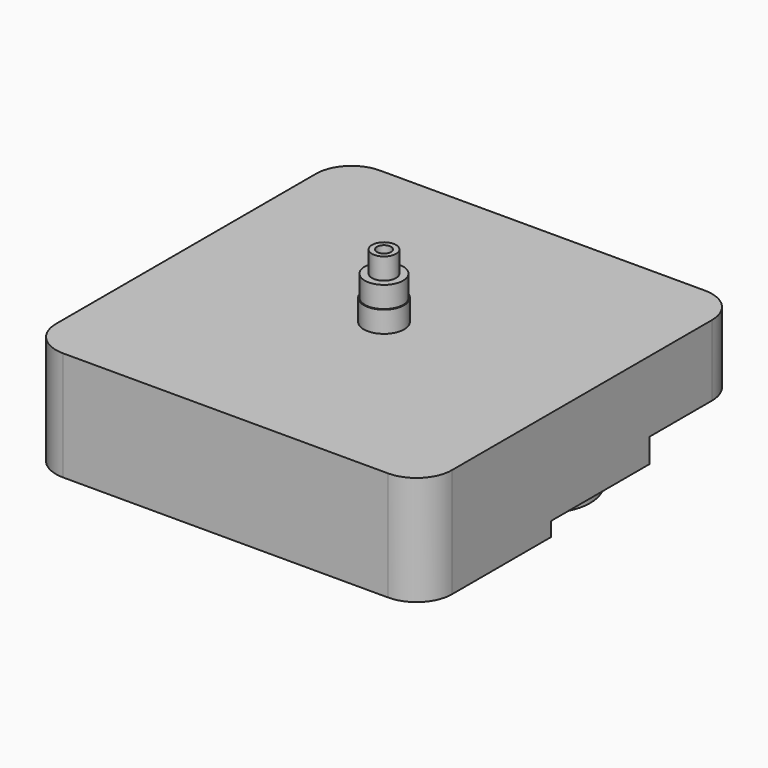
from build123d import *

# Parameters (mm, degrees)
F1_DEPTH  = 15.4
F3_DEPTH  = 5.4
F5_DEPTH  = 2
F6_R      = 6.7
F7_DEPTH  = 2
F9_DEPTH  = 8.7
F10_R     = 1.25
F11_DEPTH = 1
F12_R     = 2.85
F13_DEPTH = 3
F14_R     = 2.7
F15_DEPTH = 3
F16_R     = 1
F17_DEPTH = 5
F18_R     = 1.7
F18_R_2   = 1
F19_DEPTH = 3


with BuildPart() as f1:
    # F0 (on Top) → F1 (new body)
    with BuildSketch(Plane.XY):
        with BuildLine():
            Line((-22.9, -27.9), (22.9, -27.9))
            ThreePointArc((22.9, -27.9), (26.4355339059, -26.4355339059), (27.9, -22.9))
            Line((27.9, -22.9), (27.9, 22.9))
            ThreePointArc((27.9, 22.9), (26.4355339059, 26.4355339059), (22.9, 27.9))
            Line((22.9, 27.9), (-22.9, 27.9))
            ThreePointArc((-22.9, 27.9), (-26.4355339059, 26.4355339059), (-27.9, 22.9))
            Line((-27.9, 22.9), (-27.9, -22.9))
            ThreePointArc((-27.9, -22.9), (-26.4355339059, -26.4355339059), (-22.9, -27.9))
        make_face()
    extrude(amount=F1_DEPTH)

    # F2 (on face) → F3 (cut)
    with BuildSketch(Plane(origin=(0, 0, 0), x_dir=(1, 0, 0), z_dir=(0, 0, -1))):
        with BuildLine():
            Line((27.9, -11.9), (-27.9, -11.9))
            Line((-27.9, -11.9), (-27.9, -22.9))
            ThreePointArc((-27.9, -22.9), (-26.4355339059, -26.4355339059), (-22.9, -27.9))
            Line((-22.9, -27.9), (22.9, -27.9))
            ThreePointArc((22.9, -27.9), (26.4355339059, -26.4355339059), (27.9, -22.9))
            Line((27.9, -22.9), (27.9, -11.9))
        make_face()
    extrude(amount=-F3_DEPTH, mode=Mode.SUBTRACT)

    # F4 (on face) → F5 (cut)
    with BuildSketch(Plane(origin=(0, 0, 0), x_dir=(1, 0, 0), z_dir=(0, 0, -1))):
        with BuildLine():
            Line((27.9, -11.9), (27.9, 5.5))
            Line((27.9, 5.5), (19.5, 5.5))
            ThreePointArc((19.5, 5.5), (13.0653282912, 2.8346717088), (10.4, -3.6))
            Line((10.4, -3.6), (10.4, -11.9))
            Line((10.4, -11.9), (27.9, -11.9))
        make_face()
    extrude(amount=-F5_DEPTH, mode=Mode.SUBTRACT)

    # F6 (on face) → F7 (join)
    with BuildSketch(Plane(origin=(0, 0, 2), x_dir=(1, 0, 0), z_dir=(0, 0, -1))):
        with Locations((19.5, -3.6)):
            Circle(F6_R)
    extrude(amount=F7_DEPTH)

    # F8 (on face) → F9 (cut)
    with BuildSketch(Plane(origin=(0, 0, 5.4), x_dir=(1, 0, 0), z_dir=(0, 0, -1))):
        with BuildLine():
            Line((8, -26.6), (21.6, -26.6))
            ThreePointArc((21.6, -26.6), (25.1355339059, -25.1355339059), (26.6, -21.6))
            Line((26.6, -21.6), (26.6, -12.4))
            Line((26.6, -12.4), (-26.6, -12.4))
            Line((-26.6, -12.4), (-26.6, -21.6))
            ThreePointArc((-26.6, -21.6), (-25.1355339059, -25.1355339059), (-21.6, -26.6))
            Line((-21.6, -26.6), (-8, -26.6))
            Line((-8, -26.6), (-8, -26.55))
            ThreePointArc((-8, -26.55), (-7.8096194078, -26.0903805922), (-7.35, -25.9))
            Line((-7.35, -25.9), (7.35, -25.9))
            ThreePointArc((7.35, -25.9), (7.8096194078, -26.0903805922), (8, -26.55))
            Line((8, -26.55), (8, -26.6))
        make_face()
    extrude(amount=-F9_DEPTH, mode=Mode.SUBTRACT)

    # F10 (on face) → F11 (cut)
    with BuildSketch(Plane(origin=(0, 0, 0), x_dir=(1, 0, 0), z_dir=(0, 0, -1))):
        with Locations((19.5, -3.6)):
            Circle(F10_R)
    extrude(amount=-F11_DEPTH, mode=Mode.SUBTRACT)

    # F12 (on face) → F13 (join)
    with BuildSketch(Plane.XY.offset(15.4)):
        Circle(F12_R)
    extrude(amount=F13_DEPTH)

    # F14 (on face) → F15 (join)
    with BuildSketch(Plane.XY.offset(18.4)):
        Circle(F14_R)
    extrude(amount=F15_DEPTH)

    # F16 (on face) → F17 (cut)
    with BuildSketch(Plane.XY.offset(21.4)):
        Circle(F16_R)
    extrude(amount=-F17_DEPTH, mode=Mode.SUBTRACT)

    # F18 (on face) → F19 (join)
    with BuildSketch(Plane.XY.offset(21.4)):
        Circle(F18_R)
        Circle(F18_R_2, mode=Mode.SUBTRACT)
    extrude(amount=F19_DEPTH)


solid = f1.part
